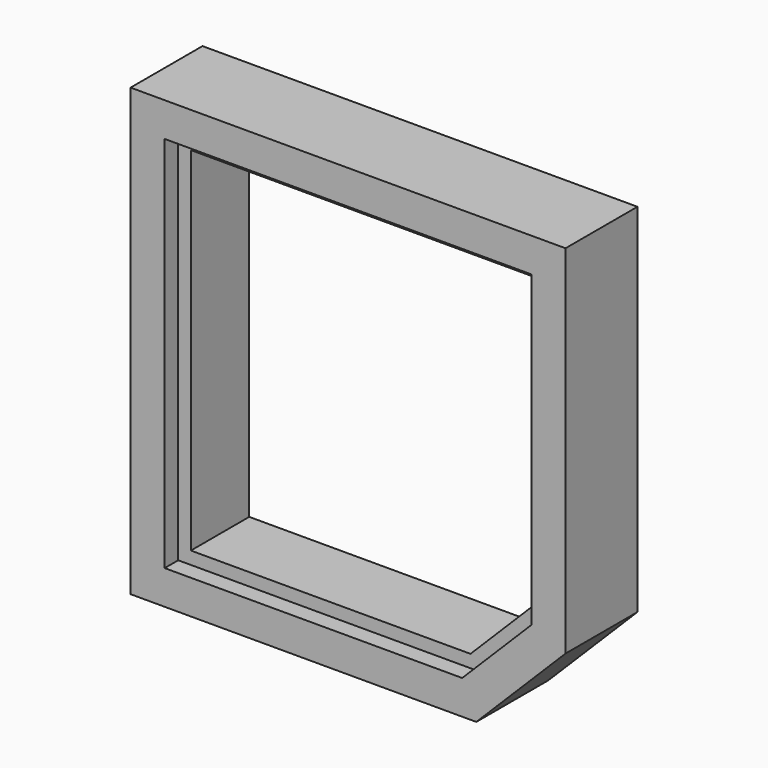
from build123d import *


with BuildPart() as f2:
    # F2: sweep along a path in F1
    with BuildLine(Plane.XZ) as f2_path:
        Line((0, 0), (287.6, 0))
        Line((287.6, 0), (487.6, 200))
        Line((487.6, 200), (487.6, 1000))
        Line((487.6, 1000), (-487.6, 1000))
        Line((-487.6, 1000), (-487.6, 0))
        Line((-487.6, 0), (0, 0))
    # F0 (on Right) → F2 (sweep)
    with BuildSketch(Plane.YZ):
        Polygon((-163.6, 76.4), (-201.6, 76.4), (-201.6, 0), (0, 0), (0, 104.8), (-163.6, 104.8), align=None)
    sweep(path=f2_path.line, transition=Transition.RIGHT)


solid = f2.part
